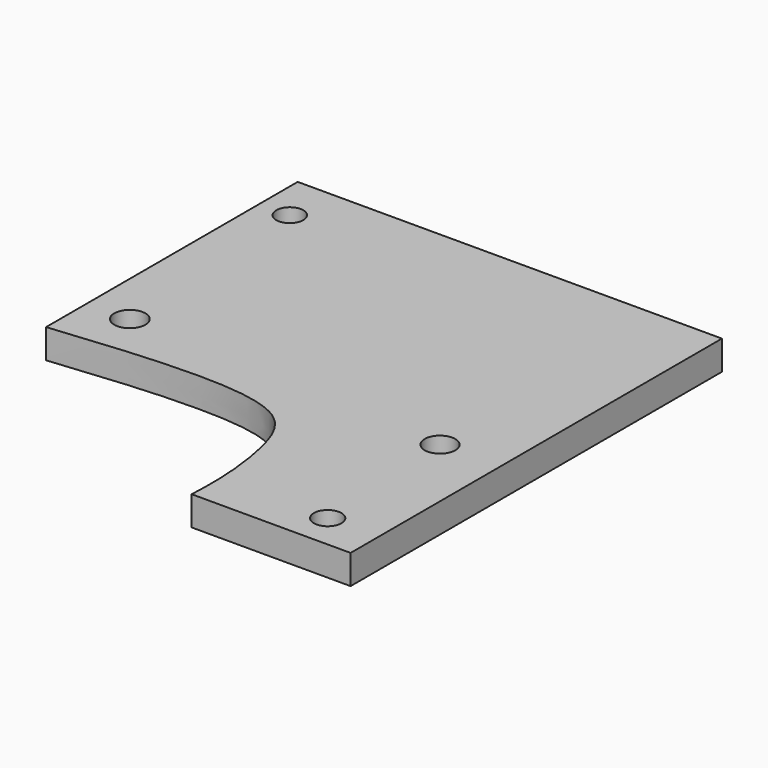
from build123d import *

# Parameters (mm, degrees)
F0_R     = 3.3722564
F0_R_2   = 2.9965015
F0_R_3   = 3.3194244
F0_R_4   = 2.921
F1_DEPTH = 6.35


with BuildPart() as f1:
    # F0 (on Top) → F1 (new body)
    with BuildSketch(Plane.XY):
        with BuildLine():
            Line((36.2804145038, -55.8886565268), (36.2804145038, 44.8522258261))
            Line((36.2804145038, 44.8522258261), (-55.7945854962, 44.8522258261))
            Line((-55.7945854962, 44.8522258261), (-55.7945854962, -23.4030392021))
            add(Edge.make_bspline(
                [(-55.7945854962, -23.4030392021), (-44.6038769228, -22.2551808426), (-24.9619552176, -20.240460874), (-4.3760378575, -22.632251186), (0.6108438614, -34.0548289929), (2.1288748453, -47.3228905612), (1.8961051061, -53.2578911354), (1.7929269234, -55.8886565268)],
                knots=[0, 0, 0, 0, 0.2865065967, 0.502876123, 0.6691454122, 0.8533444457, 1, 1, 1, 1], degree=3))
            Line((1.7929269234, -55.8886565268), (36.2804145038, -55.8886565268))
        make_face()
        with Locations((-46.5530045331, -12.2368587181)):
            Circle(F0_R, mode=Mode.SUBTRACT)
        with Locations((25.2778958529, -48.3508147299)):
            Circle(F0_R_2, mode=Mode.SUBTRACT)
        with Locations((23.2839081436, -15.3860757127)):
            Circle(F0_R_3, mode=Mode.SUBTRACT)
        with Locations((-49.1935834289, 34.4695486128)):
            Circle(F0_R_4, mode=Mode.SUBTRACT)
    extrude(amount=F1_DEPTH)


solid = f1.part
